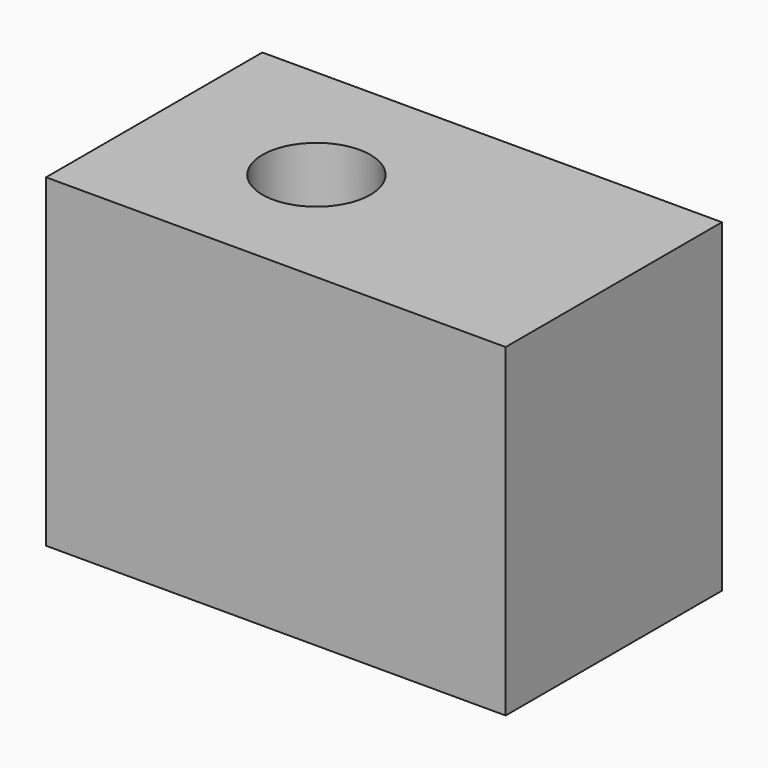
from build123d import *

# Parameters (mm, degrees)
F0_W     = 60
F0_H     = 50
F1_DEPTH = 60
F2_R     = 10
F3_DEPTH = 25
F4_DEPTH = 25


with BuildPart() as f1:
    # F0 (on Top) → F1 (new body)
    with BuildSketch(Plane.XY):
        Rectangle(F0_W, F0_H)
    extrude(amount=F1_DEPTH)

    # F2 (on face) → F3 (cut)
    with BuildSketch(Plane.XY.offset(60)):
        Circle(F2_R)
    extrude(amount=-F3_DEPTH, mode=Mode.SUBTRACT)

    # F4 (add): a face of the model
    f4_faces = [f1.faces().sort_by_distance(p)[0] for p in [
        (30, 0, 30),
    ]]
    extrude(f4_faces, amount=F4_DEPTH)


solid = f1.part
